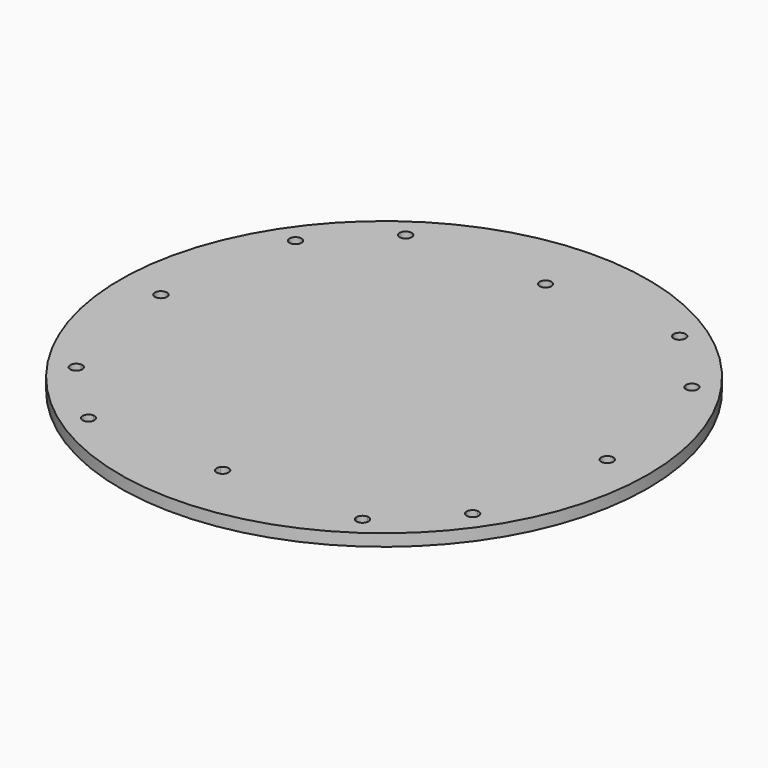
from build123d import *

# Parameters (mm, degrees)
F0_R     = 55
F0_R_2   = 1.25
F0_W     = 57.1
F0_H     = 57.1
F1_DEPTH = 2.5


with BuildPart() as f1:
    # F0 (on Top) → F1 (new body)
    with BuildSketch(Plane.XY):
        Circle(F0_R)
        with Locations((-46.5, 0)):
            Circle(F0_R_2, mode=Mode.SUBTRACT)
        with BuildLine():
            ThreePointArc((1, -41.3), (1.1858541226, -41.6547152925), (1.25, -42.05))
            ThreePointArc((1.25, -42.05), (-0.3952847075, -43.2358541226), (-1, -41.3))
            Line((-1, -41.3), (-27.3, -41.3))
            ThreePointArc((-27.3, -41.3), (-29.4338834765, -42.1838834765), (-28.55, -40.05))
            Line((-28.55, -40.05), (-28.55, -28.55))
            Line((-28.55, -28.55), (-40.05, -28.55))
            ThreePointArc((-40.05, -28.55), (-42.1838834765, -29.4338834765), (-41.3, -27.3))
            Line((-41.3, -27.3), (-41.3, 27.3))
            ThreePointArc((-41.3, 27.3), (-42.1838834765, 29.4338834765), (-40.05, 28.55))
            Line((-40.05, 28.55), (-28.55, 28.55))
            Line((-28.55, 28.55), (-28.55, 40.05))
            ThreePointArc((-28.55, 40.05), (-29.4338834765, 42.1838834765), (-27.3, 41.3))
            Line((-27.3, 41.3), (-1, 41.3))
            ThreePointArc((-1, 41.3), (-0.3952847075, 43.2358541226), (1.25, 42.05))
            ThreePointArc((1.25, 42.05), (1.1858541226, 41.6547152925), (1, 41.3))
            Line((1, 41.3), (27.3, 41.3))
            ThreePointArc((27.3, 41.3), (28.55, 42.55), (29.8, 41.3))
            ThreePointArc((29.8, 41.3), (29.4338834765, 40.4161165235), (28.55, 40.05))
            Line((28.55, 40.05), (28.55, 28.55))
            Line((28.55, 28.55), (40.05, 28.55))
            ThreePointArc((40.05, 28.55), (41.3, 29.8), (42.55, 28.55))
            ThreePointArc((42.55, 28.55), (42.1838834765, 27.6661165235), (41.3, 27.3))
            Line((41.3, 27.3), (41.3, -27.3))
            ThreePointArc((41.3, -27.3), (42.1838834765, -27.6661165235), (42.55, -28.55))
            ThreePointArc((42.55, -28.55), (41.3, -29.8), (40.05, -28.55))
            Line((40.05, -28.55), (28.55, -28.55))
            Line((28.55, -28.55), (28.55, -40.05))
            ThreePointArc((28.55, -40.05), (29.4338834765, -40.4161165235), (29.8, -41.3))
            ThreePointArc((29.8, -41.3), (28.55, -42.55), (27.3, -41.3))
            Line((27.3, -41.3), (1, -41.3))
        make_face(mode=Mode.SUBTRACT)
        with Locations((46.5, 0)):
            Circle(F0_R_2, mode=Mode.SUBTRACT)
        with BuildLine():
            Line((-28.55, 28.55), (28.55, 28.55))
            Line((28.55, 28.55), (28.55, 40.05))
            ThreePointArc((28.55, 40.05), (27.6661165235, 40.4161165235), (27.3, 41.3))
            Line((27.3, 41.3), (1, 41.3))
            ThreePointArc((1, 41.3), (0, 40.8), (-1, 41.3))
            Line((-1, 41.3), (-27.3, 41.3))
            ThreePointArc((-27.3, 41.3), (-27.6661165235, 40.4161165235), (-28.55, 40.05))
            Line((-28.55, 40.05), (-28.55, 28.55))
        make_face()
        Rectangle(F0_W, F0_H)
        with BuildLine():
            Line((-40.05, -28.55), (-28.55, -28.55))
            Line((-28.55, -28.55), (-28.55, 28.55))
            Line((-28.55, 28.55), (-40.05, 28.55))
            ThreePointArc((-40.05, 28.55), (-40.4161165235, 27.6661165235), (-41.3, 27.3))
            Line((-41.3, 27.3), (-41.3, -27.3))
            ThreePointArc((-41.3, -27.3), (-40.4161165235, -27.6661165235), (-40.05, -28.55))
        make_face()
        with BuildLine():
            ThreePointArc((-1, -41.3), (0, -40.8), (1, -41.3))
            Line((1, -41.3), (27.3, -41.3))
            ThreePointArc((27.3, -41.3), (27.6661165235, -40.4161165235), (28.55, -40.05))
            Line((28.55, -40.05), (28.55, -28.55))
            Line((28.55, -28.55), (-28.55, -28.55))
            Line((-28.55, -28.55), (-28.55, -40.05))
            ThreePointArc((-28.55, -40.05), (-27.6661165235, -40.4161165235), (-27.3, -41.3))
            Line((-27.3, -41.3), (-1, -41.3))
        make_face()
        with BuildLine():
            Line((28.55, 28.55), (28.55, -28.55))
            Line((28.55, -28.55), (40.05, -28.55))
            ThreePointArc((40.05, -28.55), (40.4161165235, -27.6661165235), (41.3, -27.3))
            Line((41.3, -27.3), (41.3, 27.3))
            ThreePointArc((41.3, 27.3), (40.4161165235, 27.6661165235), (40.05, 28.55))
            Line((40.05, 28.55), (28.55, 28.55))
        make_face()
    extrude(amount=F1_DEPTH)


solid = f1.part
